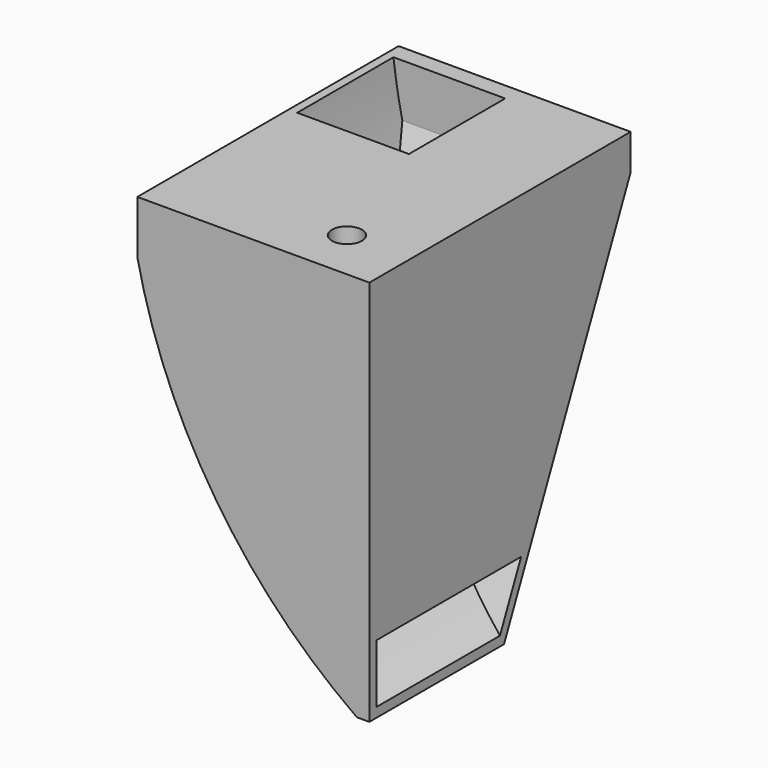
from build123d import *

# Parameters (mm, degrees)
SKETCH_W        = 27
SKETCH_H        = 38
PAD_DEPTH       = 45
POCKET_DEPTH    = 38.001
POCKET001_DEPTH = 36
POCKET002_DEPTH = 27.001
PAD001_DEPTH    = 1
PAD002_DEPTH    = 1
SKETCH008_W     = 27
SKETCH008_H     = 22
PAD003_DEPTH    = 1
SKETCH009_R     = 1.75
POCKET003_DEPTH = 45.002679


with BuildPart() as part:
    # Sketch → Pad (new body)
    with BuildSketch(Plane.XY):
        with Locations((-29.5, -13)):
            Rectangle(SKETCH_W, SKETCH_H)
    extrude(amount=-PAD_DEPTH)

    # Sketch003 (on Face2 of Pad) → Pocket (cut, through all)
    with BuildSketch(Plane.XZ.offset(32)):
        with BuildLine():
            ThreePointArc((-44, 0), (-34.593948, -26.908525), (-14.407019, -47.033892))
            Line((-14.407019, -47.033892), (-67.061646, -46.193626))
            Line((-67.061646, -46.193626), (-44, 0))
        make_face()
    extrude(amount=-POCKET_DEPTH, mode=Mode.SUBTRACT)

    # Sketch004 (on Face3 of Pocket) → Pocket001 (cut)
    with BuildSketch(Plane.XZ.offset(32)):
        with BuildLine():
            ThreePointArc((-29, 0), (-23.639101, -24.573945), (-8.645898, -44.768545))
            Line((-8.645898, -44.768545), (-11.371384, -46.875244))
            ThreePointArc((-42, 0), (-32.20336, -27.042905), (-11.371384, -46.875244))
            Line((-29, 0), (-42, 0))
        make_face()
    extrude(amount=-POCKET001_DEPTH, mode=Mode.SUBTRACT)

    # Sketch005 (on Face1 of Pocket001) → Pocket002 (cut, through all)
    with BuildSketch(Plane.YZ.offset(-16)):
        Polygon((15.686372, 17.350435), (-17.648283, -56.610836), (15.686372, -59.996391), align=None)
    extrude(amount=-POCKET002_DEPTH, mode=Mode.SUBTRACT)

    # Sketch006 (on Face3 of Pocket002) → Pad001 (join)
    with BuildSketch(Plane.XZ.offset(32)):
        with BuildLine():
            ThreePointArc((-43, -6.191343), (-33.888802, -28.004267), (-17.459999, -45.001679))
            Line((-17.459999, -45.001679), (-16, -45))
            Line((-16, 0), (-16, -45))
            Line((-43, 0), (-16, 0))
            Line((-43, -6.191343), (-43, 0))
        make_face()
    extrude(amount=-PAD001_DEPTH)

    # Sketch007 (on Face5 of Pad001) → Pad002 (join)
    with BuildSketch(Plane(origin=(0, 6.538304, -2.946841), x_dir=(-1, 0, 0), z_dir=(0, 0.911681, -0.410898))):
        with BuildLine():
            Line((16, -1.310067), (43, -1.310067))
            ThreePointArc((17.46237, -46.127049), (34.375924, -26.080314), (43, -1.310067))
            Line((16, -46.127049), (17.46237, -46.127049))
            Line((16, -1.310067), (16, -46.127049))
        make_face()
    extrude(amount=-PAD002_DEPTH)

    # Sketch008 (on Face2 of Pad002) → Pad003 (join)
    with BuildSketch(Plane.XY):
        with Locations((-29.5, -21)):
            Rectangle(SKETCH008_W, SKETCH008_H)
    extrude(amount=-PAD003_DEPTH)

    # Sketch009 (on Face2 of Pad003) → Pocket003 (cut, through all)
    with BuildSketch(Plane.XY):
        with Locations((-23.410666, -26)):
            Circle(SKETCH009_R)
    extrude(amount=-POCKET003_DEPTH, mode=Mode.SUBTRACT)


solid = part.part
